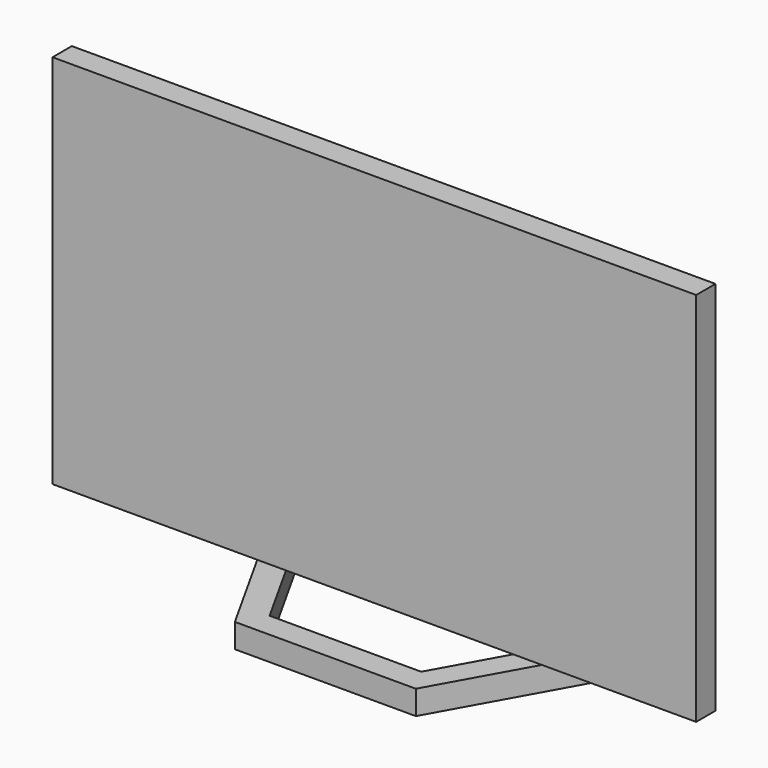
from build123d import *

# Parameters (mm, degrees)
F0_W     = 1067
F0_H     = 623
F1_DEPTH = 40
F5_DEPTH = 40


with BuildPart() as f1:
    # F0 (on Front) → F1 (new body)
    with BuildSketch(Plane.XZ):
        with Locations((-533.5, 311.5)):
            Rectangle(F0_W, F0_H)
    extrude(amount=F1_DEPTH)


with BuildPart() as f5:
    # F4 (on offset) → F5 (new body)
    with BuildSketch(Plane.XY.offset(-75)):
        Polygon((-873.5, 198.466703), (-683.5, -141.533297), (-383.5, -141.533297), (-193.5, 200), (-241.078449, 200), (-407.868665, -100), (-659.131335, -100), (-825.921551, 198.466703), align=None)
    extrude(amount=F5_DEPTH)


solid = Compound([f1.part, f5.part])
